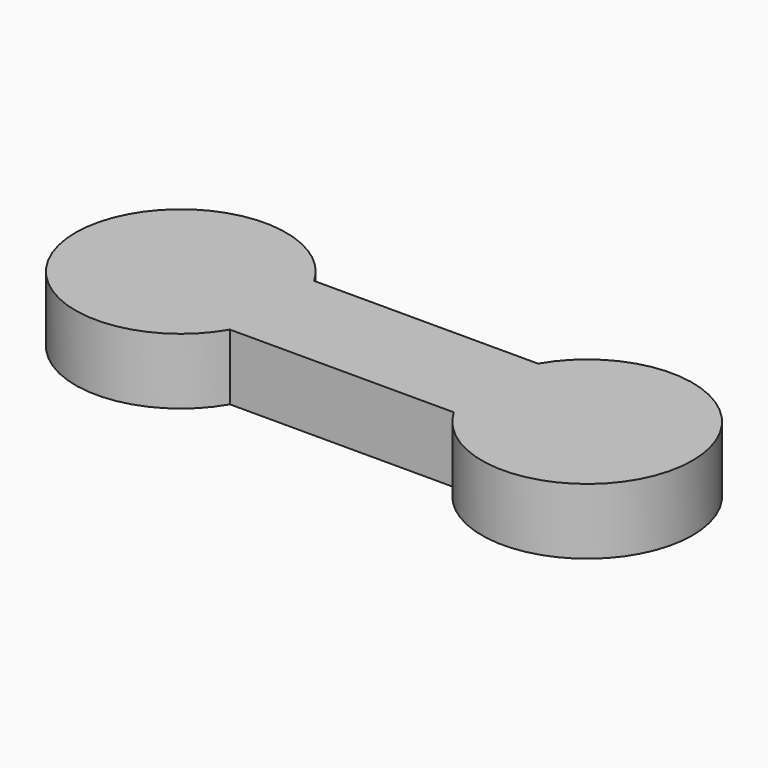
from build123d import *

# Parameters (mm, degrees)
F0_W     = 85
F0_H     = 40
F1_DEPTH = 25


with BuildPart() as f1:
    # F0 (on Top) → F1 (new body)
    with BuildSketch(Plane.XY):
        with BuildLine():
            Line((-40.518802, -17.567035), (-40.518802, 22.432965))
            ThreePointArc((-40.518802, 22.432965), (-115.159818, 2.432965), (-40.518802, -17.567035))
        make_face()
        with BuildLine():
            ThreePointArc((44.481198, -17.567035), (119.122214, 2.432965), (44.481198, 22.432965))
            Line((44.481198, 22.432965), (44.481198, -17.567035))
        make_face()
        with Locations((1.981198, 2.432965)):
            Rectangle(F0_W, F0_H)
    extrude(amount=F1_DEPTH)


solid = f1.part
